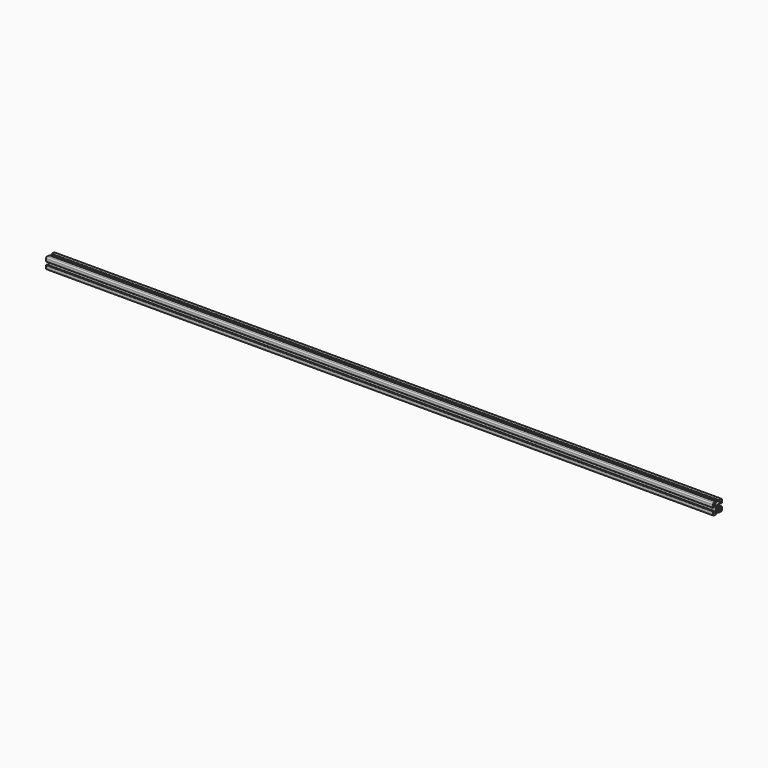
from build123d import *

# Parameters (mm, degrees)
F0_R     = 2
F1_DEPTH = 1200


with BuildPart() as f1:
    # F0 (on Right) → F1 (new body)
    with BuildSketch(Plane.YZ):
        with BuildLine():
            Line((-3.3, 10), (-8, 10))
            ThreePointArc((-8, 10), (-9.414214, 9.414214), (-10, 8))
            Line((-10, 8), (-10, 3.3))
            ThreePointArc((-10, 3.3), (-9.765685, 2.734315), (-9.2, 2.5))
            Line((-9.2, 2.5), (-8.5, 2.5))
            ThreePointArc((-8.5, 2.5), (-8.287868, 2.587868), (-8.2, 2.8))
            Line((-8.2, 2.8), (-8.2, 4.92))
            ThreePointArc((-8.2, 4.92), (-7.687627, 5.68682), (-6.783101, 5.506899))
            Line((-6.783101, 5.506899), (-4.525962, 3.249759))
            ThreePointArc((-4.525962, 3.249759), (-3.877655, 2.279499), (-3.65, 1.135))
            Line((-3.65, 1.135), (-3.65, -1.135))
            ThreePointArc((-3.65, -1.135), (-3.877655, -2.279499), (-4.525962, -3.249759))
            Line((-4.525962, -3.249759), (-6.783101, -5.506899))
            ThreePointArc((-6.783101, -5.506899), (-7.687627, -5.68682), (-8.2, -4.92))
            Line((-8.2, -4.92), (-8.2, -2.8))
            ThreePointArc((-8.2, -2.8), (-8.287868, -2.587868), (-8.5, -2.5))
            Line((-8.5, -2.5), (-9.2, -2.5))
            ThreePointArc((-9.2, -2.5), (-9.765685, -2.734315), (-10, -3.3))
            Line((-10, -3.3), (-10, -8))
            ThreePointArc((-10, -8), (-9.414214, -9.414214), (-8, -10))
            Line((-8, -10), (-3.3, -10))
            ThreePointArc((-3.3, -10), (-2.734315, -9.765685), (-2.5, -9.2))
            Line((-2.5, -9.2), (-2.5, -8.5))
            ThreePointArc((-2.5, -8.5), (-2.587868, -8.287868), (-2.8, -8.2))
            Line((-2.8, -8.2), (-4.92, -8.2))
            ThreePointArc((-4.92, -8.2), (-5.68682, -7.687627), (-5.506899, -6.783101))
            Line((-5.506899, -6.783101), (-3.249759, -4.525962))
            ThreePointArc((-3.249759, -4.525962), (-2.279499, -3.877655), (-1.135, -3.65))
            Line((-1.135, -3.65), (1.135, -3.65))
            ThreePointArc((1.135, -3.65), (2.279499, -3.877655), (3.249759, -4.525962))
            Line((3.249759, -4.525962), (5.506899, -6.783101))
            ThreePointArc((5.506899, -6.783101), (5.68682, -7.687627), (4.92, -8.2))
            Line((4.92, -8.2), (2.8, -8.2))
            ThreePointArc((2.8, -8.2), (2.587868, -8.287868), (2.5, -8.5))
            Line((2.5, -8.5), (2.5, -9.2))
            ThreePointArc((2.5, -9.2), (2.734315, -9.765685), (3.3, -10))
            Line((3.3, -10), (8, -10))
            ThreePointArc((8, -10), (9.414214, -9.414214), (10, -8))
            Line((10, -8), (10, -3.3))
            ThreePointArc((10, -3.3), (9.765685, -2.734315), (9.2, -2.5))
            Line((9.2, -2.5), (8.5, -2.5))
            ThreePointArc((8.5, -2.5), (8.287868, -2.587868), (8.2, -2.8))
            Line((8.2, -2.8), (8.2, -4.92))
            ThreePointArc((8.2, -4.92), (7.687627, -5.68682), (6.783101, -5.506899))
            Line((6.783101, -5.506899), (4.525962, -3.249759))
            ThreePointArc((4.525962, -3.249759), (3.877655, -2.279499), (3.65, -1.135))
            Line((3.65, -1.135), (3.65, 1.135))
            ThreePointArc((3.65, 1.135), (3.877655, 2.279499), (4.525962, 3.249759))
            Line((4.525962, 3.249759), (6.783101, 5.506899))
            ThreePointArc((6.783101, 5.506899), (7.687627, 5.68682), (8.2, 4.92))
            Line((8.2, 4.92), (8.2, 2.8))
            ThreePointArc((8.2, 2.8), (8.287868, 2.587868), (8.5, 2.5))
            Line((8.5, 2.5), (9.2, 2.5))
            ThreePointArc((9.2, 2.5), (9.765685, 2.734315), (10, 3.3))
            Line((10, 3.3), (10, 8))
            ThreePointArc((10, 8), (9.414214, 9.414214), (8, 10))
            Line((8, 10), (3.3, 10))
            ThreePointArc((3.3, 10), (2.734315, 9.765685), (2.5, 9.2))
            Line((2.5, 9.2), (2.5, 8.5))
            ThreePointArc((2.5, 8.5), (2.587868, 8.287868), (2.8, 8.2))
            Line((2.8, 8.2), (4.92, 8.2))
            ThreePointArc((4.92, 8.2), (5.68682, 7.687627), (5.506899, 6.783101))
            Line((5.506899, 6.783101), (3.249759, 4.525962))
            ThreePointArc((3.249759, 4.525962), (2.279499, 3.877655), (1.135, 3.65))
            Line((1.135, 3.65), (-1.135, 3.65))
            ThreePointArc((-1.135, 3.65), (-2.279499, 3.877655), (-3.249759, 4.525962))
            Line((-3.249759, 4.525962), (-5.506899, 6.783101))
            ThreePointArc((-5.506899, 6.783101), (-5.68682, 7.687627), (-4.92, 8.2))
            Line((-4.92, 8.2), (-2.8, 8.2))
            ThreePointArc((-2.8, 8.2), (-2.587868, 8.287868), (-2.5, 8.5))
            Line((-2.5, 8.5), (-2.5, 9.2))
            ThreePointArc((-2.5, 9.2), (-2.734315, 9.765685), (-3.3, 10))
        make_face()
        Circle(F0_R, mode=Mode.SUBTRACT)
    extrude(amount=F1_DEPTH)


solid = f1.part
